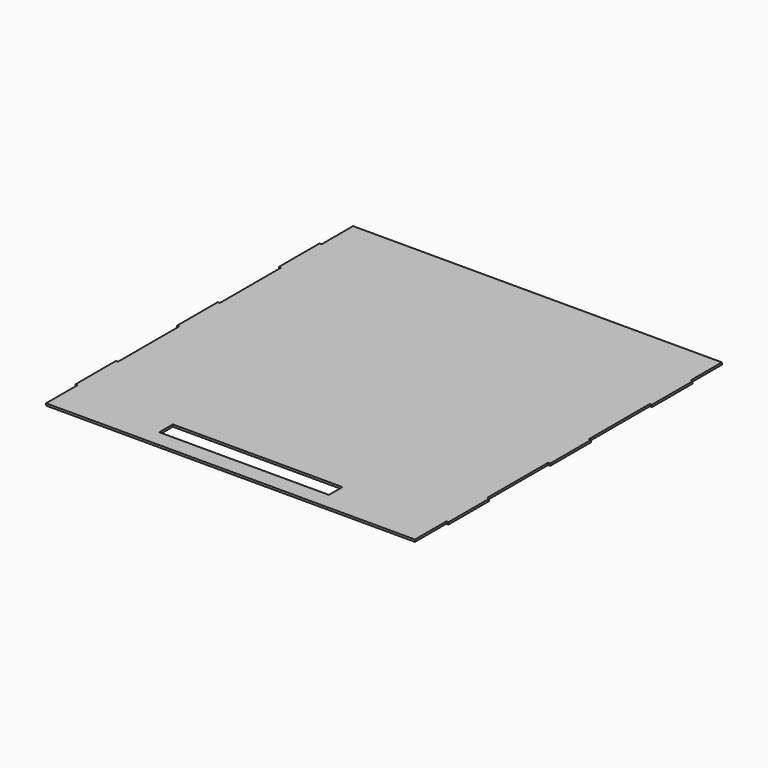
from build123d import *

# Parameters (mm, degrees)
F1_DEPTH = 3.175
F2_W     = 254
F2_H     = 25.4
F3_DEPTH = 3.176


with BuildPart() as f1:
    # F0 (on Top) → F1 (new body)
    with BuildSketch(Plane.XY):
        Polygon((-276.225, -287.3375), (276.225, -287.3375), (276.225, -228.6), (279.4, -228.6), (279.4, -152.4), (276.225, -152.4), (276.225, -38.1), (279.4, -38.1), (279.4, 38.1), (276.225, 38.1), (276.225, 152.4), (279.4, 152.4), (279.4, 228.6), (276.225, 228.6), (276.225, 287.3375), (-276.225, 287.3375), (-276.225, 228.6), (-279.4, 228.6), (-279.4, 152.4), (-276.225, 152.4), (-276.225, 38.1), (-279.4, 38.1), (-279.4, -38.1), (-276.225, -38.1), (-276.225, -152.4), (-279.4, -152.4), (-279.4, -228.6), (-276.225, -228.6), align=None)
    extrude(amount=F1_DEPTH)

    # F2 (on face) → F3 (cut, through all)
    with BuildSketch(Plane.XY.offset(3.175)):
        with Locations((0, -249.2375)):
            Rectangle(F2_W, F2_H)
    extrude(amount=-F3_DEPTH, mode=Mode.SUBTRACT)


solid = f1.part
